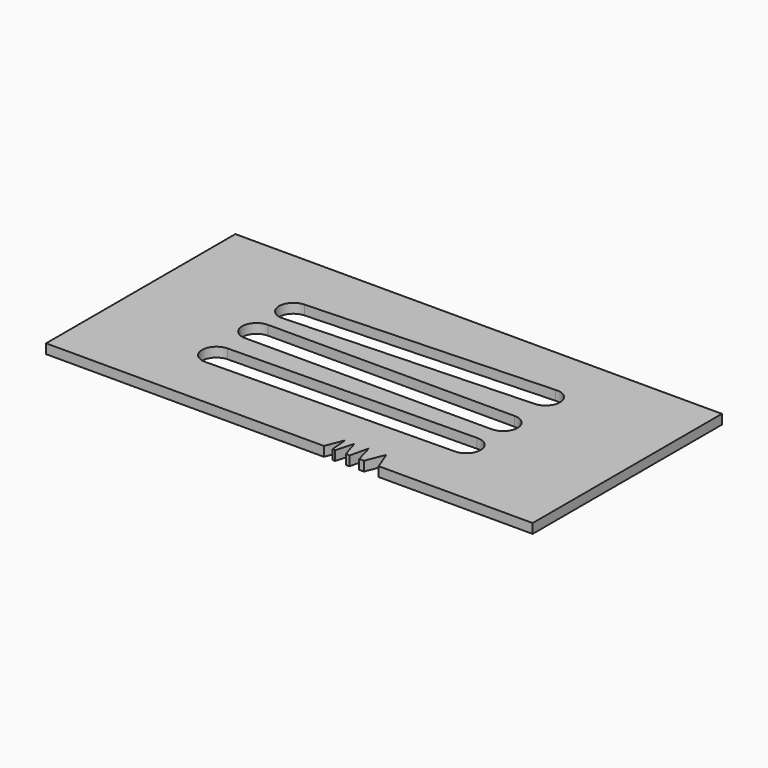
from build123d import *

# Parameters (mm, degrees)
F0_W     = 50.8
F0_H     = 24.7
F1_DEPTH = 0.5
F2_R     = 1.5
F3_DEPTH = 25
F5_DEPTH = 25
F6_DEPTH = 25
F7_DEPTH = 25
F9_DEPTH = 25


with BuildPart() as f1:
    # F0 (on Top) → F1 (new body, symmetric)
    with BuildSketch(Plane.XY):
        Rectangle(F0_W, F0_H)
    extrude(amount=F1_DEPTH, both=True)

    # F2 (on face) → F3 (cut)
    with BuildSketch(Plane.XY.offset(0.5)):
        with Locations((12.5349592417, -4.9380455166)):
            Circle(F2_R)
    extrude(amount=-F3_DEPTH, mode=Mode.SUBTRACT)

    # F4 (on face) → F5 (cut)
    with BuildSketch(Plane(origin=(0, 0, -0.5), x_dir=(1, 0, 0), z_dir=(0, 0, -1))):
        with BuildLine():
            ThreePointArc((-13.2667996844, 3.8108435868), (-12.1922088341, 4.2424211974), (-11.7452072576, 5.3106881678))
            ThreePointArc((-11.7452072576, 5.3106881678), (-12.1505501018, 6.3362249596), (-13.147508206, 6.8075030847))
            Line((-13.147508206, 6.8075030847), (-13.2993535533, 6.8097105755))
            Line((-13.2993535533, 6.8097105755), (-13.2452072576, 5.3106881678))
            Line((-13.2452072576, 5.3106881678), (-13.3017715787, 3.8117550547))
            ThreePointArc((-13.3017715787, 3.8117550547), (-13.2842882888, 3.8111973632), (-13.2667996844, 3.8108435868))
        make_face()
        with BuildLine():
            Line((-13.2452072576, 5.3106881678), (-13.2993535533, 6.8097105755))
            ThreePointArc((-13.2993535533, 6.8097105755), (-14.7452067697, 5.3118980046), (-13.3017715787, 3.8117550547))
            Line((-13.3017715787, 3.8117550547), (-13.2452072576, 5.3106881678))
        make_face()
    extrude(amount=-F5_DEPTH, mode=Mode.SUBTRACT)

    # F4 (on face) → F6 (cut)
    with BuildSketch(Plane(origin=(0, 0, -0.5), x_dir=(1, 0, 0), z_dir=(0, 0, -1))):
        with BuildLine():
            ThreePointArc((-13.147508206, 6.8075030847), (-12.1505501018, 6.3362249596), (-11.7452072576, 5.3106881678))
            ThreePointArc((-11.7452072576, 5.3106881678), (-12.1922088341, 4.2424211974), (-13.2667996844, 3.8108435868))
            Line((-13.2667996844, 3.8108435868), (12.4463466927, 3.4406651988))
            ThreePointArc((12.4463466927, 3.4406651988), (11.0349592417, 4.9380455166), (12.4463466927, 6.4354258344))
            Line((12.4463466927, 6.4354258344), (-13.147508206, 6.8075030847))
        make_face()
    extrude(amount=-F6_DEPTH, mode=Mode.SUBTRACT)

    # F4 (on face) → F7 (cut)
    with BuildSketch(Plane(origin=(0, 0, -0.5), x_dir=(1, 0, 0), z_dir=(0, 0, -1))):
        with BuildLine():
            ThreePointArc((12.4463466927, -1.5), (13.5070068645, -1.0606601718), (13.9463466927, 0))
            ThreePointArc((13.9463466927, 0), (13.5070068645, 1.0606601718), (12.4463466927, 1.5))
            Line((12.4463466927, 1.5), (12.4463466927, -1.5))
        make_face()
        with BuildLine():
            Line((12.4463466927, -1.5), (12.4463466927, 1.5))
            ThreePointArc((12.4463466927, 1.5), (10.9463466927, 0), (12.4463466927, -1.5))
        make_face()
        with BuildLine():
            ThreePointArc((12.4463466927, -1.5), (10.9463466927, 0), (12.4463466927, 1.5))
            Line((12.4463466927, 1.5), (-13.3017869666, 1.5))
            ThreePointArc((-13.3017869666, 1.5), (-12.2411267948, 1.0606601718), (-11.8017869666, 0))
            ThreePointArc((-11.8017869666, 0), (-12.2411267948, -1.0606601718), (-13.3017869666, -1.5))
            Line((-13.3017869666, -1.5), (12.4463466927, -1.5))
        make_face()
        with BuildLine():
            ThreePointArc((-11.8017869666, 0), (-12.2411267948, 1.0606601718), (-13.3017869666, 1.5))
            Line((-13.3017869666, 1.5), (-13.3017869666, -1.5))
            ThreePointArc((-13.3017869666, -1.5), (-12.2411267948, -1.0606601718), (-11.8017869666, 0))
        make_face()
        with BuildLine():
            Line((-13.3017869666, -1.5), (-13.3017869666, 1.5))
            ThreePointArc((-13.3017869666, 1.5), (-14.8017869666, 0), (-13.3017869666, -1.5))
        make_face()
        with BuildLine():
            ThreePointArc((12.1577924413, -7.1743104644), (13.3265385473, -6.8031241581), (13.8277874587, -5.6839743633))
            ThreePointArc((13.8277874587, -5.6839743633), (13.4095745674, -4.6448705901), (12.3881385899, -4.1851889414))
            Line((12.3881385899, -4.1851889414), (12.1577924413, -7.1743104644))
        make_face()
        with BuildLine():
            Line((12.1577924413, -7.1743104644), (12.3881385899, -4.1851889414))
            ThreePointArc((12.3881385899, -4.1851889414), (10.8322215741, -5.5687238327), (12.1577924413, -7.1743104644))
        make_face()
        with BuildLine():
            ThreePointArc((12.1577924413, -7.1743104644), (10.8322215741, -5.5687238327), (12.3881385899, -4.1851889414))
            Line((12.3881385899, -4.1851889414), (-13.0010832561, -3.162848961))
            ThreePointArc((-13.0010832561, -3.162848961), (-12.0590596608, -3.6572043001), (-11.6817944423, -4.6519236627))
            ThreePointArc((-11.6817944423, -4.6519236627), (-12.1427083133, -5.733727719), (-13.2421944641, -6.1507071151))
            Line((-13.2421944641, -6.1507071151), (12.1577924413, -7.1743104644))
        make_face()
        with BuildLine():
            ThreePointArc((-11.6817944423, -4.6519236627), (-12.0590596608, -3.6572043001), (-13.0010832561, -3.162848961))
            Line((-13.0010832561, -3.162848961), (-13.2421944641, -3.1531402102))
            Line((-13.2421944641, -3.1531402102), (-13.2421944641, -6.1507071151))
            ThreePointArc((-13.2421944641, -6.1507071151), (-12.1427083133, -5.733727719), (-11.6817944423, -4.6519236627))
        make_face()
        with BuildLine():
            ThreePointArc((-13.2421944641, -3.1531402102), (-14.6817944423, -4.6519236627), (-13.2421944641, -6.1507071151))
            Line((-13.2421944641, -6.1507071151), (-13.2421944641, -3.1531402102))
        make_face()
    extrude(amount=-F7_DEPTH, mode=Mode.SUBTRACT)

    # F8 (on face) → F9 (cut)
    with BuildSketch(Plane(origin=(0, 0, -0.5), x_dir=(1, 0, 0), z_dir=(0, 0, -1))):
        Polygon((8.5604507476, 10.399765335), (9.3251494691, 12.3484628275), (9.31405598, 12.35), (7.7857054425, 12.35), align=None)
        Polygon((6.7462604493, 10.399765335), (7.2912084784, 12.35), (6.2853197637, 12.35), align=None)
        Polygon((5.3150104359, 10.4954689741), (5.8871536403, 12.35), (4.7833247403, 12.35), align=None)
        Polygon((4.5080462822, 12.35), (3.6044052231, 12.35), (4.3411315419, 10.4954689741), align=None)
    extrude(amount=-F9_DEPTH, mode=Mode.SUBTRACT)


solid = f1.part
